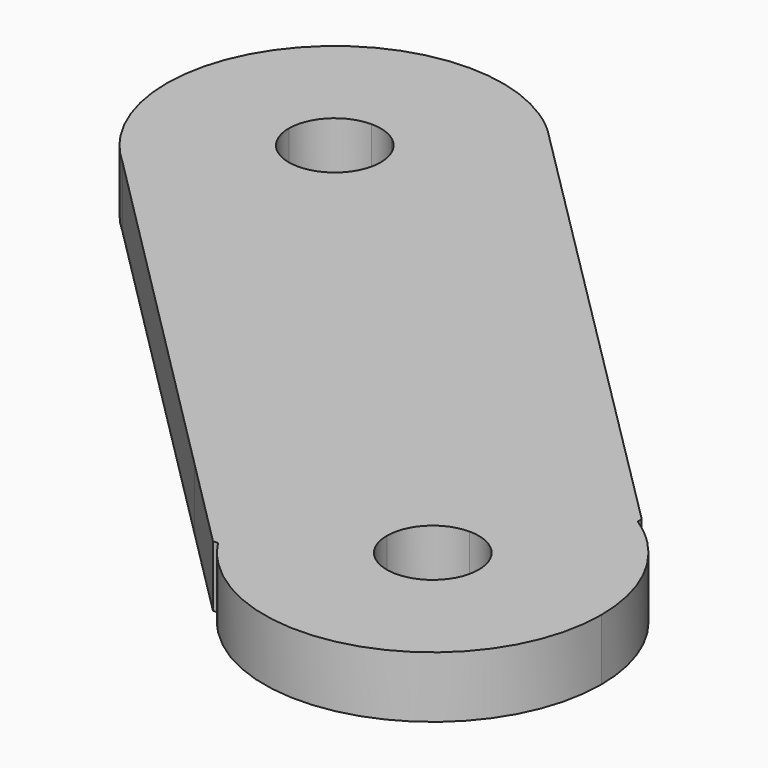
from build123d import *

# Parameters (mm, degrees)
F1_DEPTH = 2.5


with BuildPart() as f1:
    # F0 (on Top) → F1 (new body)
    with BuildSketch(Plane.XY):
        with BuildLine():
            ThreePointArc((-4.432018362, -59.389646693), (-9.2830207067, -61.3989976553), (-11.2923716689, -66.25))
            Line((-11.2923716689, -66.25), (-6.307018362, -66.25))
            ThreePointArc((-6.307018362, -66.25), (-5.7578435767, -64.9241747853), (-4.432018362, -64.375))
            Line((-4.432018362, -64.375), (-4.432018362, -59.389646693))
        make_face()
        with BuildLine():
            ThreePointArc((-11.2923716689, -66.25), (-11.0075540706, -68.2062151314), (-10.1767505138, -70))
            Line((-10.1767505138, -70), (-3.300883806, -70))
            Line((-3.300883806, -70), (-5.5188745002, -67.7778641088))
            ThreePointArc((-5.5188745002, -67.7778641088), (-5.7590807574, -67.5745868785), (-5.961909132, -67.3340014907))
            ThreePointArc((-5.961909132, -67.3340014907), (-6.2186590917, -66.8188056813), (-6.307018362, -66.25))
            Line((-6.307018362, -66.25), (-11.2923716689, -66.25))
        make_face()
        with BuildLine():
            Line((-3.300883806, -70), (-10.1767505138, -70))
            ThreePointArc((-10.1767505138, -70), (-9.6316427271, -70.7253049011), (-8.9955877088, -71.3723317262))
            ThreePointArc((-8.9955877088, -71.3723317262), (-5.1719813551, -73.0703300701), (-1.073184401, -72.2318627466))
            Line((-1.073184401, -72.2318627466), (-3.300883806, -70))
        make_face()
        with BuildLine():
            Line((-5.5188745002, -67.7778641088), (-3.300883806, -70))
            Line((-3.300883806, -70), (-0.682018362, -70))
            Line((-0.682018362, -70), (-0.682018362, -67.3733334464))
            Line((-0.682018362, -67.3733334464), (-2.9275173343, -65.1310265161))
            ThreePointArc((-2.9275173343, -65.1310265161), (-2.6520514484, -65.6606420557), (-2.557018362, -66.25))
            ThreePointArc((-2.557018362, -66.25), (-3.5724342355, -67.9163553431), (-5.5188745002, -67.7778641088))
        make_face()
        with BuildLine():
            ThreePointArc((-0.682018362, -60.5052678482), (-2.4758032306, -59.6744642913), (-4.432018362, -59.389646693))
            Line((-4.432018362, -59.389646693), (-4.432018362, -64.375))
            ThreePointArc((-4.432018362, -64.375), (-3.8439266036, -64.4696143441), (-3.3151862223, -64.7439087107))
            ThreePointArc((-3.3151862223, -64.7439087107), (-3.1071365022, -64.9232321011), (-2.9275173343, -65.1310265161))
            Line((-2.9275173343, -65.1310265161), (-0.682018362, -67.3733334464))
            Line((-0.682018362, -67.3733334464), (-0.682018362, -60.5052678482))
        make_face()
        with BuildLine():
            Line((-0.682018362, -60.5052678482), (-0.682018362, -67.3733334464))
            Line((-0.682018362, -67.3733334464), (1.5522932658, -69.6044689353))
            ThreePointArc((1.5522932658, -69.6044689353), (2.2057124085, -67.9834871547), (2.428334945, -66.25))
            ThreePointArc((2.428334945, -66.25), (1.9563934061, -63.7494715403), (0.6055009602, -61.5929787873))
            Line((0.6055009602, -61.5929787873), (0.2178320688, -61.2058609786))
            ThreePointArc((0.2178320688, -61.2058609786), (-0.2175101465, -60.8368338287), (-0.682018362, -60.5052678482))
        make_face()
        with BuildLine():
            Line((-0.682018362, -70), (-3.300883806, -70))
            Line((-3.300883806, -70), (-1.073184401, -72.2318627466))
            ThreePointArc((-1.073184401, -72.2318627466), (0.4207532103, -71.0992324716), (1.5522932658, -69.6044689353))
            Line((1.5522932658, -69.6044689353), (-0.682018362, -67.3733334464))
            Line((-0.682018362, -67.3733334464), (-0.682018362, -70))
        make_face()
        with BuildLine():
            ThreePointArc((-1.073184401, -72.2318627466), (-5.1719813551, -73.0703300701), (-8.9955877088, -71.3723317262))
            Line((-8.9955877088, -71.3723317262), (5.8543275971, -86.25))
            Line((5.8543275971, -86.25), (8.692981638, -86.25))
            ThreePointArc((8.692981638, -86.25), (8.9153876284, -84.5154631906), (9.5682159488, -82.8931507817))
            Line((9.5682159488, -82.8931507817), (-1.073184401, -72.2318627466))
        make_face()
        with BuildLine():
            ThreePointArc((1.5522932658, -69.6044689353), (0.4207532103, -71.0992324716), (-1.073184401, -72.2318627466))
            Line((-1.073184401, -72.2318627466), (9.5682159488, -82.8931507817))
            ThreePointArc((9.5682159488, -82.8931507817), (10.7071629023, -81.3881005545), (12.2124662871, -80.249488211))
            Line((12.2124662871, -80.249488211), (1.5522932658, -69.6044689353))
        make_face()
        with BuildLine():
            ThreePointArc((2.428334945, -66.25), (2.2057124085, -67.9834871547), (1.5522932658, -69.6044689353))
            Line((1.5522932658, -69.6044689353), (12.2124662871, -80.249488211))
            ThreePointArc((12.2124662871, -80.249488211), (13.8341842954, -79.5972132324), (15.567981638, -79.375))
            Line((15.567981638, -79.375), (15.567981638, -76.5341898643))
            Line((15.567981638, -76.5341898643), (0.6055009602, -61.5929787873))
            ThreePointArc((0.6055009602, -61.5929787873), (1.9563934061, -63.7494715403), (2.428334945, -66.25))
        make_face()
        with BuildLine():
            ThreePointArc((15.567981638, -79.375), (13.8341842954, -79.5972132324), (12.2124662871, -80.249488211))
            Line((12.2124662871, -80.249488211), (15.567981638, -83.6002335993))
            Line((15.567981638, -83.6002335993), (15.567981638, -79.375))
        make_face()
        with BuildLine():
            ThreePointArc((12.2124662871, -80.249488211), (10.7071629023, -81.3881005545), (9.5682159488, -82.8931507817))
            Line((9.5682159488, -82.8931507817), (12.9188032632, -86.25))
            Line((12.9188032632, -86.25), (13.692981638, -86.25))
            ThreePointArc((13.692981638, -86.25), (14.2421564233, -84.9241747853), (15.567981638, -84.375))
            Line((15.567981638, -84.375), (15.567981638, -83.6002335993))
            Line((15.567981638, -83.6002335993), (12.2124662871, -80.249488211))
        make_face()
        with BuildLine():
            Line((12.9188032632, -86.25), (9.5682159488, -82.8931507817))
            ThreePointArc((9.5682159488, -82.8931507817), (8.9153876284, -84.5154631906), (8.692981638, -86.25))
            Line((8.692981638, -86.25), (12.9188032632, -86.25))
        make_face()
        with BuildLine():
            Line((8.692981638, -86.25), (5.8543275971, -86.25))
            Line((5.8543275971, -86.25), (9.5973323053, -90))
            Line((9.5973323053, -90), (9.8057663522, -90))
            ThreePointArc((9.8057663522, -90), (8.9770463823, -88.2058112013), (8.692981638, -86.25))
        make_face()
        with BuildLine():
            Line((15.567981638, -76.5341898643), (15.567981638, -79.375))
            ThreePointArc((15.567981638, -79.375), (17.5237928393, -79.6590647443), (19.317981638, -80.4877847142))
            Line((19.317981638, -80.4877847142), (19.317981638, -80.2788591303))
            Line((19.317981638, -80.2788591303), (15.567981638, -76.5341898643))
        make_face()
        with BuildLine():
            Line((13.692981638, -86.25), (12.9188032632, -86.25))
            Line((12.9188032632, -86.25), (14.2409192426, -87.5745868785))
            ThreePointArc((14.2409192426, -87.5745868785), (13.8353727682, -86.9667227527), (13.692981638, -86.25))
        make_face()
        with BuildLine():
            Line((16.8928634978, -84.9232321011), (15.567981638, -83.6002335993))
            Line((15.567981638, -83.6002335993), (15.567981638, -84.375))
            ThreePointArc((15.567981638, -84.375), (16.2848969711, -84.5174708068), (16.8928634978, -84.9232321011))
        make_face()
        with BuildLine():
            Line((12.9188032632, -86.25), (8.692981638, -86.25))
            ThreePointArc((8.692981638, -86.25), (8.9770463823, -88.2058112013), (9.8057663522, -90))
            Line((9.8057663522, -90), (19.317981638, -90))
            Line((19.317981638, -90), (19.317981638, -80.4877847142))
            ThreePointArc((19.317981638, -80.4877847142), (17.5237928393, -79.6590647443), (15.567981638, -79.375))
            Line((15.567981638, -79.375), (15.567981638, -83.6002335993))
            Line((15.567981638, -83.6002335993), (16.8928634978, -84.9232321011))
            ThreePointArc((16.8928634978, -84.9232321011), (17.3000004727, -85.5318525524), (17.442981638, -86.25))
            ThreePointArc((17.442981638, -86.25), (16.2847043907, -87.9826088698), (14.2409192426, -87.5745868785))
            Line((14.2409192426, -87.5745868785), (12.9188032632, -86.25))
        make_face()
        with BuildLine():
            Line((19.317981638, -90), (9.8057663522, -90))
            ThreePointArc((9.8057663522, -90), (10.2251877733, -90.5766821837), (10.7020861881, -91.1068185544))
            ThreePointArc((10.7020861881, -91.1068185544), (18.1959650647, -92.6028991893), (22.442981638, -86.25))
            ThreePointArc((22.442981638, -86.25), (21.9187173646, -83.6167926912), (20.4258817889, -81.385184369))
            ThreePointArc((20.4258817889, -81.385184369), (19.8952576619, -80.9076870915), (19.317981638, -80.4877847142))
            Line((19.317981638, -80.4877847142), (19.317981638, -90))
        make_face()
    extrude(amount=F1_DEPTH)


solid = f1.part
